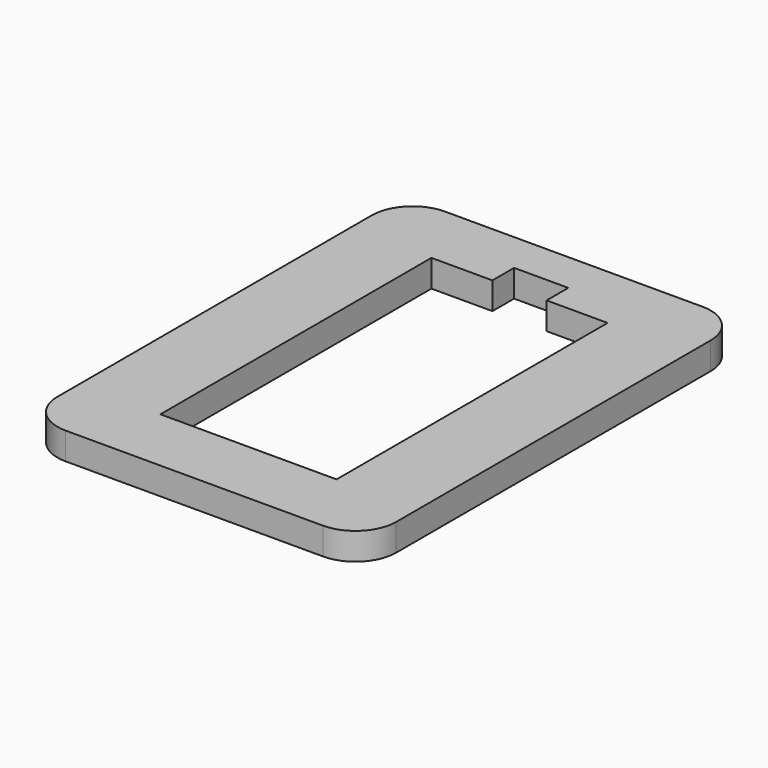
from build123d import *

# Parameters (mm, degrees)
F0_W     = 25
F0_H     = 35
F1_DEPTH = 2
F2_R     = 3
F3_W     = 4
F3_H     = 2
F4_DEPTH = 100


with BuildPart() as f1:
    # F0 (on Top) → F1 (new body)
    with BuildSketch(Plane.XY):
        with Locations((12.5, 17.5)):
            Rectangle(F0_W, F0_H)
    extrude(amount=F1_DEPTH)

    # F2
    f2_edges = [f1.edges().sort_by_distance(p)[0] for p in [
        (25, 35, 1),
        (0, 35, 1),
        (25, 0, 1),
        (0, 0, 1),
    ]]
    fillet(f2_edges, radius=F2_R)

    # F3 (on face) → F4 (cut)
    with BuildSketch(Plane.XY.offset(2)):
        Polygon((10.5, 30), (6, 30), (6, 5), (19, 5), (19, 30), (14.5, 30), (14.5, 28), (10.5, 28), align=None)
        with Locations((12.5, 31)):
            Rectangle(F3_W, F3_H)
        with Locations((12.5, 29)):
            Rectangle(F3_W, F3_H)
    extrude(amount=-F4_DEPTH, mode=Mode.SUBTRACT)


solid = f1.part
